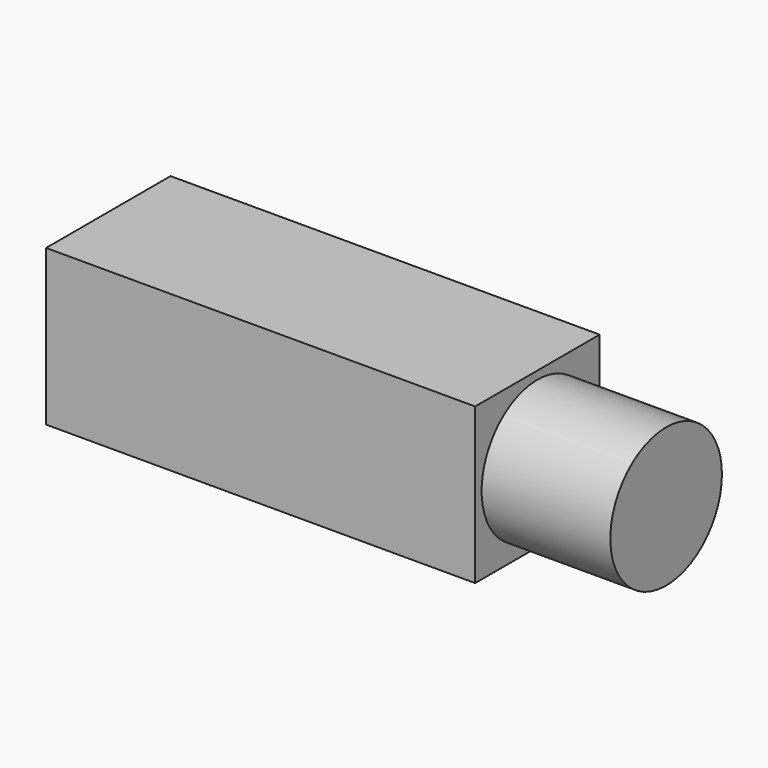
from build123d import *

# Parameters (mm, degrees)
F0_W     = 4
F0_H     = 1.45
F1_DEPTH = 1.45
F2_R     = 0.65
F3_DEPTH = 1.2


with BuildPart() as f1:
    # F0 (on Top) → F1 (new body)
    with BuildSketch(Plane.XY):
        with Locations((-11.310024, 0)):
            Rectangle(F0_W, F0_H)
    extrude(amount=F1_DEPTH)

    # F2 (on face) → F3 (join)
    with BuildSketch(Plane.YZ.offset(-9.310024)):
        with Locations((0, 0.725)):
            Circle(F2_R)
    extrude(amount=F3_DEPTH)


solid = f1.part
